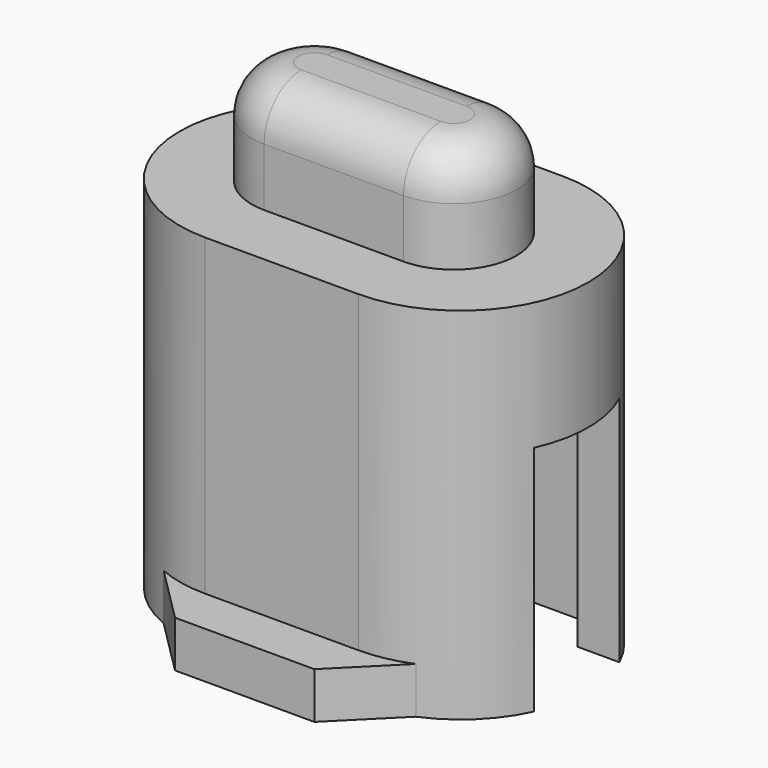
from build123d import *

# Parameters (mm, degrees)
PAD_DEPTH       = 10
POCKET_DEPTH    = 5
SKETCH002_W     = 0.5
SKETCH002_H     = 0.95
PAD001_DEPTH    = 2
SKETCH005_W     = 10
SKETCH005_H     = 10
POCKET001_DEPTH = 2.251
PAD002_DEPTH    = 1
FILLET_R        = 1


with BuildPart() as part:
    # Sketch → Pad (new body)
    with BuildSketch(Plane.XY):
        with BuildLine():
            ThreePointArc((-1.65, 2.75), (-4.4, 0), (-1.65, -2.75))
            Line((-1.65, -2.75), (1.65, -2.75))
            ThreePointArc((1.65, -2.75), (4.4, 0), (1.65, 2.75))
            Line((1.65, 2.75), (-1.65, 2.75))
        make_face()
    extrude(amount=PAD_DEPTH)

    # Sketch001 → Pocket (cut)
    with BuildSketch(Plane.XY):
        Polygon((-3.25, 1.95), (-3.25, 1.15), (-5.25, 1.15), (-5.25, -1.15), (-3.25, -1.15), (-3.25, -1.95), (3.25, -1.95), (3.25, -1.15), (5.25, -1.15), (5.25, 1.15), (3.25, 1.15), (3.25, 1.95), align=None)
    extrude(amount=POCKET_DEPTH, mode=Mode.SUBTRACT)

    # Sketch002 → Pad001 (join, symmetric)
    with BuildSketch(Plane.XZ):
        with Locations((-0.75, 4.525)):
            Rectangle(SKETCH002_W, SKETCH002_H)
        with Locations((0.75, 4.525)):
            Rectangle(SKETCH002_W, SKETCH002_H)
    extrude(amount=PAD001_DEPTH, both=True)

    # Sketch005 (on DatumPlane) → Pocket001 (cut, through all)
    with BuildSketch(Plane.XY.offset(7.75)):
        Rectangle(SKETCH005_W, SKETCH005_H)
        with BuildLine():
            ThreePointArc((-1.5, 1.35), (-2.85, 0), (-1.5, -1.35))
            Line((-1.5, -1.35), (1.5, -1.35))
            ThreePointArc((1.5, -1.35), (2.85, 0), (1.5, 1.35))
            Line((1.5, 1.35), (-1.5, 1.35))
        make_face(mode=Mode.SUBTRACT)
    extrude(amount=POCKET001_DEPTH, mode=Mode.SUBTRACT)

    # Sketch006 → Pad002 (join)
    with BuildSketch(Plane.XY):
        Polygon((-2.714303, -2.535697), (-1.5, -3.75), (1.5, -3.75), (2.714303, -2.535697), align=None)
    pad002 = extrude(amount=PAD002_DEPTH)

    # Mirrored: Pad002 across XZ
    add(pad002.mirror(Plane.XZ))

    # Fillet
    fillet_edges = [part.edges().sort_by_distance(p)[0] for p in [
        (0, -1.35, 10),
        (2.85, 0, 10),
        (0, 1.35, 10),
        (-2.85, 0, 10),
    ]]
    fillet(fillet_edges, radius=FILLET_R)


solid = part.part
